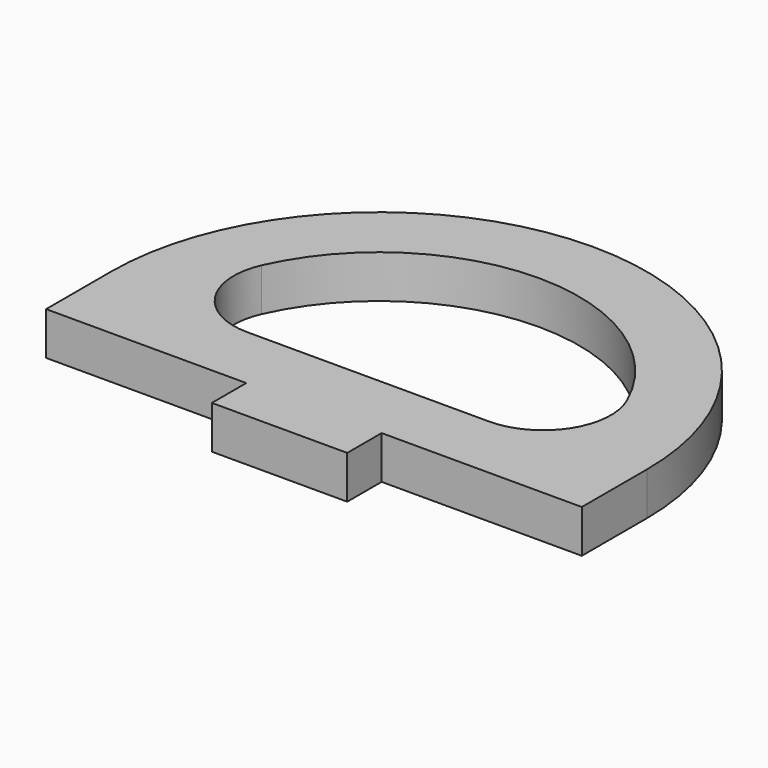
from build123d import *

# Parameters (mm, degrees)
F1_DEPTH = 3.175


with BuildPart() as f1:
    # F0 (on Top) → F1 (new body)
    with BuildSketch(Plane.XY):
        with BuildLine():
            Line((-19.06356, 1.432344), (-19.06356, -4.567656))
            Line((-19.06356, -4.567656), (-4.276681, -4.567656))
            Line((-4.276681, -4.567656), (-4.276681, -7.742656))
            Line((-4.276681, -7.742656), (5.723319, -7.742656))
            Line((5.723319, -7.742656), (5.723319, -4.567656))
            Line((5.723319, -4.567656), (20.510198, -4.567656))
            Line((20.510198, -4.567656), (20.510198, 1.432344))
            ThreePointArc((20.510198, 1.432344), (0.723319, 21.219223), (-19.06356, 1.432344))
        make_face()
        with BuildLine():
            Line((9.655452, 0.432344), (5.723319, 0.432344))
            Line((5.723319, 0.432344), (-4.276681, 0.432344))
            Line((-4.276681, 0.432344), (-8.208814, 0.432344))
            ThreePointArc((-8.208814, 0.432344), (-12.405108, 2.713683), (-12.772135, 7.475896))
            ThreePointArc((-12.772135, 7.475896), (0.723319, 16.219223), (14.218773, 7.475896))
            ThreePointArc((14.218773, 7.475896), (13.851746, 2.713683), (9.655452, 0.432344))
        make_face(mode=Mode.SUBTRACT)
    extrude(amount=F1_DEPTH)


solid = f1.part
